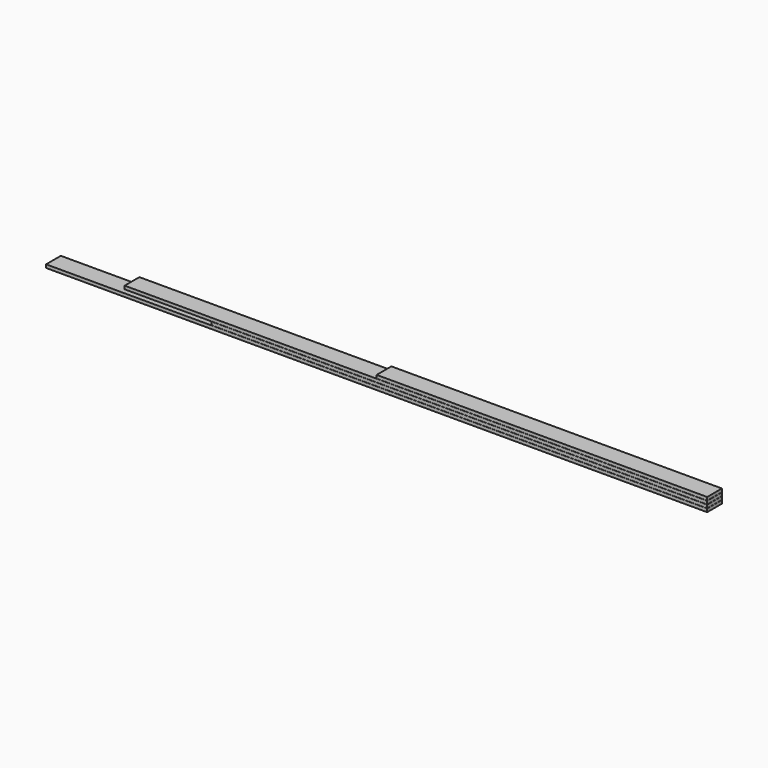
from build123d import *

# Parameters (mm, degrees)
F0_W     = 136
F0_H     = 24
F1_DEPTH = 4880
F2_DEPTH = 3660
F3_DEPTH = 4300
F4_DEPTH = 2440


with BuildPart() as f1:
    # F0 (on Right) → F1 (new body)
    with BuildSketch(Plane.YZ):
        with Locations((68, 12)):
            Rectangle(F0_W, F0_H)
    extrude(amount=-F1_DEPTH)


with BuildPart() as f2:
    # F0 (on Right) → F2 (new body)
    with BuildSketch(Plane.YZ):
        with Locations((68, 37)):
            Rectangle(F0_W, F0_H)
    extrude(amount=-F2_DEPTH)


with BuildPart() as f3:
    # F0 (on Right) → F3 (new body)
    with BuildSketch(Plane.YZ):
        with Locations((68, 62)):
            Rectangle(F0_W, F0_H)
    extrude(amount=-F3_DEPTH)


with BuildPart() as f4:
    # F0 (on Right) → F4 (new body)
    with BuildSketch(Plane.YZ):
        with Locations((68, 87)):
            Rectangle(F0_W, F0_H)
    extrude(amount=-F4_DEPTH)


solid = Compound([f1.part, f2.part, f3.part, f4.part])
